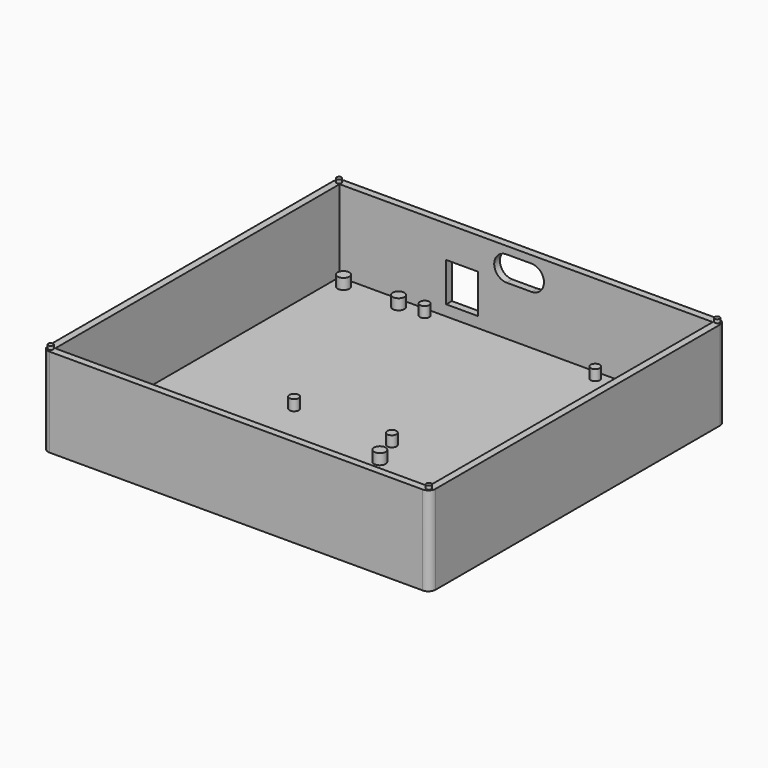
from build123d import *

# Parameters (mm, degrees)
SKETCH_W        = 105
SKETCH_H        = 100
PAD_DEPTH       = 25
PAD001_DEPTH    = 2
SKETCH003_W     = 9
SKETCH003_H     = 11
POCKET_DEPTH    = 5
POCKET001_DEPTH = 2
SKETCH007_R     = 0.7
PAD006_DEPTH    = 1
PAD007_DEPTH    = 2
SKETCH005_R     = 1.3
SKETCH005_R_2   = 1.65
PAD008_DEPTH    = 3


with BuildPart() as part:
    # Sketch → Pad (new body)
    with BuildSketch(Plane.XY):
        with BuildLine():
            Line((-54.5, 50), (-54.5, -50))
            ThreePointArc((-54.5, -50), (-53.914214, -51.414214), (-52.5, -52))
            Line((-52.5, -52), (52.5, -52))
            ThreePointArc((52.5, -52), (53.914214, -51.414214), (54.5, -50))
            Line((54.5, -50), (54.5, 50))
            ThreePointArc((54.5, 50), (53.914214, 51.414214), (52.5, 52))
            Line((52.5, 52), (-52.5, 52))
            ThreePointArc((-52.5, 52), (-53.914214, 51.414214), (-54.5, 50))
        make_face()
        Rectangle(SKETCH_W, SKETCH_H, mode=Mode.SUBTRACT)
    extrude(amount=PAD_DEPTH)

    # Sketch001 → Pad001 (join)
    with BuildSketch(Plane.XY):
        with BuildLine():
            Line((-54.5, 47), (-54.5, -47))
            ThreePointArc((-54.5, -47), (-53.035534, -50.535534), (-49.5, -52))
            Line((-49.5, -52), (49.5, -52))
            ThreePointArc((49.5, -52), (53.035534, -50.535534), (54.5, -47))
            Line((54.5, -47), (54.5, 47))
            ThreePointArc((54.5, 47), (53.035534, 50.535534), (49.5, 52))
            Line((49.5, 52), (-49.5, 52))
            ThreePointArc((-49.5, 52), (-53.035534, 50.535534), (-54.5, 47))
        make_face()
    extrude(amount=PAD001_DEPTH)

    # Sketch003 (on Face13 of Pad001) → Pocket (cut)
    with BuildSketch(Plane(origin=(0, 52, 0), x_dir=(-1, 0, 0), z_dir=(0, 1, 0))):
        with Locations((18.000214, 10.5)):
            Rectangle(SKETCH003_W, SKETCH003_H)
    extrude(amount=-POCKET_DEPTH, mode=Mode.SUBTRACT)

    # Sketch004 (on Face8 of Pocket) → Pocket001 (cut)
    with BuildSketch(Plane(origin=(0, 52, 0), x_dir=(-1, 0, 0), z_dir=(0, 1, 0))):
        with BuildLine():
            ThreePointArc((5.5, 15.9), (9, 19.4), (5.5, 22.9))
            Line((5.5, 22.9), (-1.5, 22.9))
            ThreePointArc((-1.5, 22.9), (-5, 19.4), (-1.5, 15.9))
            Line((5.5, 15.9), (-1.5, 15.9))
        make_face()
    extrude(amount=-POCKET001_DEPTH, mode=Mode.SUBTRACT)

    # Sketch007 → Pad006 (join)
    with BuildSketch(Plane.XY.offset(25)):
        with Locations((53.200001, 50.700001)):
            Circle(SKETCH007_R)
        with Locations((-53.200001, 50.700001)):
            Circle(SKETCH007_R)
        with Locations((-53.200001, -50.700001)):
            Circle(SKETCH007_R)
        with Locations((53.200001, -50.700001)):
            Circle(SKETCH007_R)
    extrude(amount=PAD006_DEPTH)

    # Sketch001 → Pad007 (join)
    with BuildSketch(Plane.XY):
        with BuildLine():
            Line((-54.5, 47), (-54.5, -47))
            ThreePointArc((-54.5, -47), (-53.035534, -50.535534), (-49.5, -52))
            Line((-49.5, -52), (49.5, -52))
            ThreePointArc((49.5, -52), (53.035534, -50.535534), (54.5, -47))
            Line((54.5, -47), (54.5, 47))
            ThreePointArc((54.5, 47), (53.035534, 50.535534), (49.5, 52))
            Line((49.5, 52), (-49.5, 52))
            ThreePointArc((-49.5, 52), (-53.035534, 50.535534), (-54.5, 47))
        make_face()
    extrude(amount=PAD007_DEPTH)

    # Sketch005 (on Face23 of Pocket001) → Pad008 (join)
    with BuildSketch(Plane.XY.offset(2)):
        with Locations((-26.500001, 47.400001)):
            Circle(SKETCH005_R)
        with Locations((-33.500001, 47.000001)):
            Circle(SKETCH005_R_2)
        with Locations((-49.000001, 47.000001)):
            Circle(SKETCH005_R_2)
        with Locations((-49.000001, -37.999999)):
            Circle(SKETCH005_R_2)
        with Locations((-33.500001, -37.999999)):
            Circle(SKETCH005_R_2)
        with Locations((21.499999, 47.400001)):
            Circle(SKETCH005_R)
        with Locations((-21.200001, -5.099999)):
            Circle(SKETCH005_R)
        with Locations((6.299999, -5.099999)):
            Circle(SKETCH005_R)
        with Locations((9.299999, -13.099999)):
            Circle(SKETCH005_R_2)
        with Locations((35.799999, -13.099999)):
            Circle(SKETCH005_R_2)
        with Locations((9.299999, -33.099999)):
            Circle(SKETCH005_R_2)
        with Locations((35.799999, -33.099999)):
            Circle(SKETCH005_R_2)
    extrude(amount=PAD008_DEPTH)


solid = part.part
